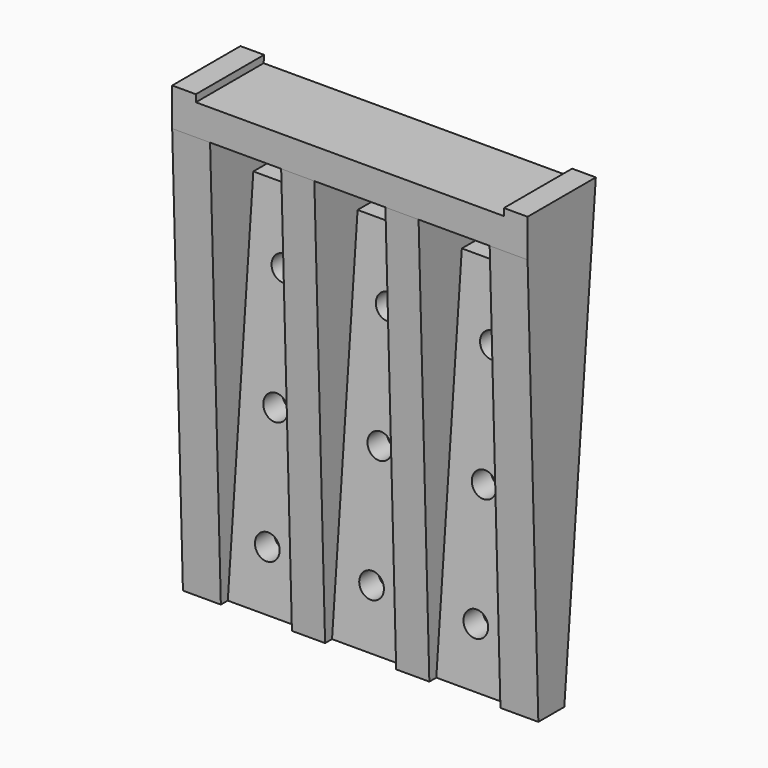
from build123d import *

# Parameters (mm, degrees)
F0_W      = 75
F0_H      = 100
F1_DEPTH  = 18
F3_DEPTH  = 75.001
F4_W      = 15
F4_H      = 92
F5_DEPTH  = 50
F6_W      = 65
F6_H      = 18
F7_DEPTH  = 1.5
F9_DEPTH  = 75.001
F11_DEPTH = 75
F12_W     = 65
F12_H     = 1.5
F13_DEPTH = 18.001
F14_W     = 15
F14_H     = 10
F14_W_2   = 75.273126
F14_H_2   = 5
F14_R     = 2.6
F15_DEPTH = 18.001


with BuildPart() as f1:
    # F0 (on Front) → F1 (new body)
    with BuildSketch(Plane.XZ):
        with Locations((37.5, 50)):
            Rectangle(F0_W, F0_H)
    extrude(amount=F1_DEPTH)

    # F2 (on face) → F3 (cut, through all)
    with BuildSketch(Plane(origin=(0, 0, 0), x_dir=(0, -1, 0), z_dir=(-1, 0, 0))):
        Polygon((18, 92), (15, 0), (18, 0), align=None)
    extrude(amount=-F3_DEPTH, mode=Mode.SUBTRACT)

    # F4 (on face) → F5 (cut)
    with BuildSketch(Plane.XZ.offset(18)):
        with Locations((15.5, 46)):
            Rectangle(F4_W, F4_H)
        with Locations((37.5, 46)):
            Rectangle(F4_W, F4_H)
        with Locations((59.5, 46)):
            Rectangle(F4_W, F4_H)
    extrude(amount=-F5_DEPTH, mode=Mode.SUBTRACT)

    # F6 (on face) → F7 (cut)
    with BuildSketch(Plane.XY.offset(100)):
        with Locations((37.5, -9)):
            Rectangle(F6_W, F6_H)
    extrude(amount=-F7_DEPTH, mode=Mode.SUBTRACT)

    # F8 (on face) → F9 (cut, through all)
    with BuildSketch(Plane(origin=(0, 0, 0), x_dir=(0, -1, 0), z_dir=(-1, 0, 0))):
        Polygon((8.748866, 0), (0, 100), (0, 0), align=None)
    extrude(amount=-F9_DEPTH, mode=Mode.SUBTRACT)

    # F10 (on face) → F11 (join, through all)
    with BuildSketch(Plane(origin=(0, 0, 0), x_dir=(0, -1, 0), z_dir=(-1, 0, 0))):
        Polygon((5.019099, 100), (0, 100), (8.748866, 0), (13.767966, 0), align=None)
    extrude(amount=-F11_DEPTH)

    # F12 (on face) → F13 (cut, through all)
    with BuildSketch(Plane.XZ.offset(18)):
        with Locations((37.5, 99.25)):
            Rectangle(F12_W, F12_H)
    extrude(amount=-F13_DEPTH, mode=Mode.SUBTRACT)

    # F14 (on face) → F15 (cut, through all)
    with BuildSketch(Plane.XZ.offset(18)):
        with Locations((15.5, 87)):
            Rectangle(F14_W, F14_H)
        with Locations((37.5, 87)):
            Rectangle(F14_W, F14_H)
        with Locations((59.5, 87)):
            Rectangle(F14_W, F14_H)
        with Locations((37.636563, 2.5)):
            Rectangle(F14_W_2, F14_H_2)
        with Locations((15.5, 67)):
            Circle(F14_R)
        with Locations((37.5, 67)):
            Circle(F14_R)
        with Locations((59.5, 67)):
            Circle(F14_R)
        with Locations((59.5, 42)):
            Circle(F14_R)
        with Locations((37.5, 42)):
            Circle(F14_R)
        with Locations((37.5, 17)):
            Circle(F14_R)
        with Locations((59.5, 17)):
            Circle(F14_R)
        with Locations((15.5, 17)):
            Circle(F14_R)
        with Locations((15.5, 42)):
            Circle(F14_R)
    extrude(amount=-F15_DEPTH, mode=Mode.SUBTRACT)


solid = f1.part
